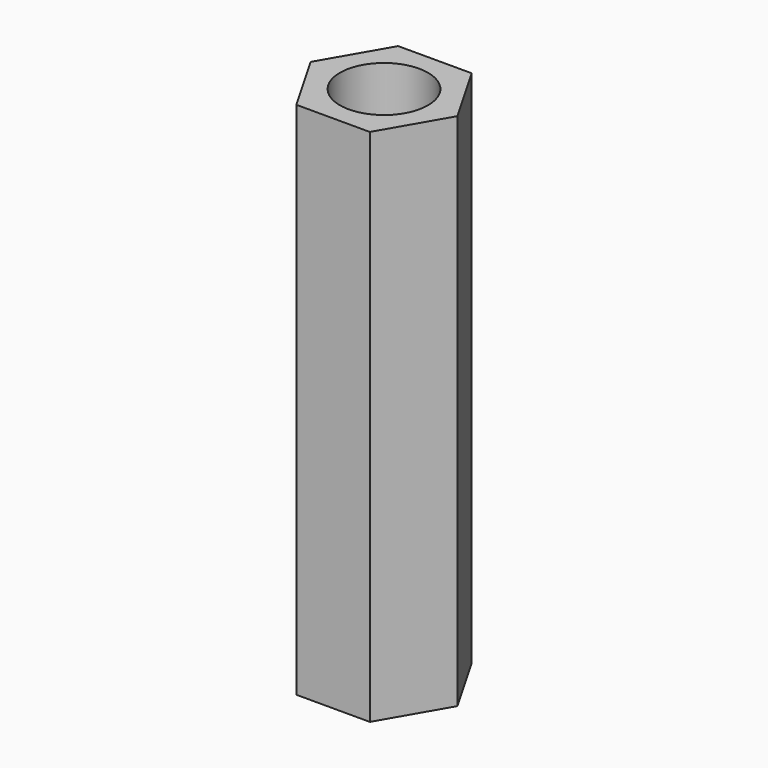
from build123d import *

# Parameters (mm, degrees)
F1_DEPTH = 22.4536
F2_R     = 1.905
F3_DEPTH = 22.4536


with BuildPart() as f1:
    # F0 (on Top) → F1 (new body)
    with BuildSketch(Plane.XY):
        Polygon((1.5875, -2.749631), (3.175, 0), (1.5875, 2.749631), (-1.5875, 2.749631), (-3.175, 0), (-1.5875, -2.749631), align=None)
    extrude(amount=F1_DEPTH)

    # F2 (on face) → F3 (cut, through all)
    with BuildSketch(Plane.XY.offset(22.4536)):
        Circle(F2_R)
    extrude(amount=-F3_DEPTH, mode=Mode.SUBTRACT)


solid = f1.part
